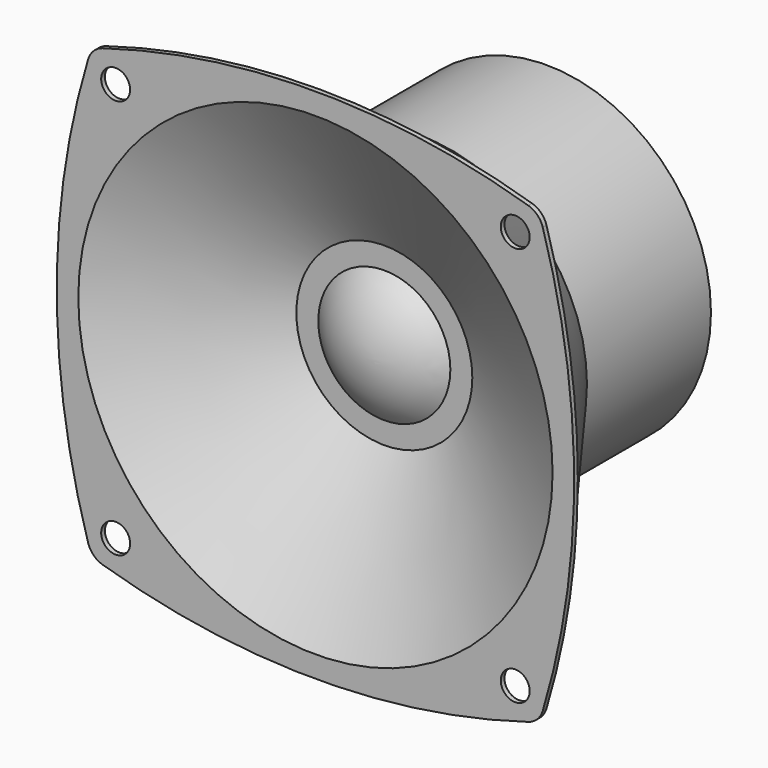
from build123d import *

# Parameters (mm, degrees)
F0_R     = 24.257
F1_DEPTH = 22.86
F2_R     = 24.257
F3_DEPTH = 19.05
F3_TAPER = -36.1
F5_DEPTH = 0.6858
F6_R     = 34.97349893
F7_DEPTH = 12.7
F7_TAPER = 60
F8_R     = 2.1336
F9_DEPTH = 42.5968


with BuildPart() as f1:
    # F0 (on Front) → F1 (new body)
    with BuildSketch(Plane.XZ):
        Circle(F0_R)
    extrude(amount=F1_DEPTH)

    # F2 (on face) → F3 (join)
    with BuildSketch(Plane.XZ.offset(22.86)):
        Circle(F2_R)
    extrude(amount=F3_DEPTH, taper=F3_TAPER)

    # F4 (on face) → F5 (join)
    with BuildSketch(Plane.XZ.offset(41.91)):
        with BuildLine():
            ThreePointArc((33.5223912747, 31.3980251207), (32.7273744523, 32.7273744523), (31.3980251207, 33.5223912747))
            ThreePointArc((31.3980251207, 33.5223912747), (0, 38.14849893), (-31.3980251207, 33.5223912747))
            ThreePointArc((-31.3980251207, 33.5223912747), (-32.7273744523, 32.7273744523), (-33.5223912747, 31.3980251207))
            ThreePointArc((-33.5223912747, 31.3980251207), (-38.14849893, 0), (-33.5223912747, -31.3980251207))
            ThreePointArc((-33.5223912747, -31.3980251207), (-32.7273744523, -32.7273744523), (-31.3980251207, -33.5223912747))
            ThreePointArc((-31.3980251207, -33.5223912747), (0, -38.14849893), (31.3980251207, -33.5223912747))
            ThreePointArc((31.3980251207, -33.5223912747), (32.7273744523, -32.7273744523), (33.5223912747, -31.3980251207))
            ThreePointArc((33.5223912747, -31.3980251207), (38.14849893, 0), (33.5223912747, 31.3980251207))
        make_face()
    extrude(amount=F5_DEPTH)

    # F6 (on face) → F7 (cut)
    with BuildSketch(Plane.XZ.offset(42.5958)):
        Circle(F6_R)
    extrude(amount=-F7_DEPTH, taper=F7_TAPER, mode=Mode.SUBTRACT)

    # F8 (on face) → F9 (cut, through all)
    with BuildSketch(Plane.XZ.offset(42.5958)):
        with Locations((-29.464, 29.464)):
            Circle(F8_R)
        with Locations((29.464, 29.464)):
            Circle(F8_R)
        with Locations((-29.464, -29.464)):
            Circle(F8_R)
        with Locations((29.464, -29.464)):
            Circle(F8_R)
    extrude(amount=-F9_DEPTH, mode=Mode.SUBTRACT)

    # F10 (on Top) → F11 (revolve)
    with BuildSketch(Plane.XY):
        with BuildLine():
            Line((0, -20.0114808977), (0, -33.8875725865))
            ThreePointArc((0, -33.8875725865), (5.9030029242, -32.5693659519), (10.6844540753, -28.8652011141))
            Line((10.6844540753, -28.8652011141), (0, -20.0114808977))
        make_face()
    revolve(axis=Axis((0, -26.9495267421, 0), (0, 1, 0)))


solid = f1.part
